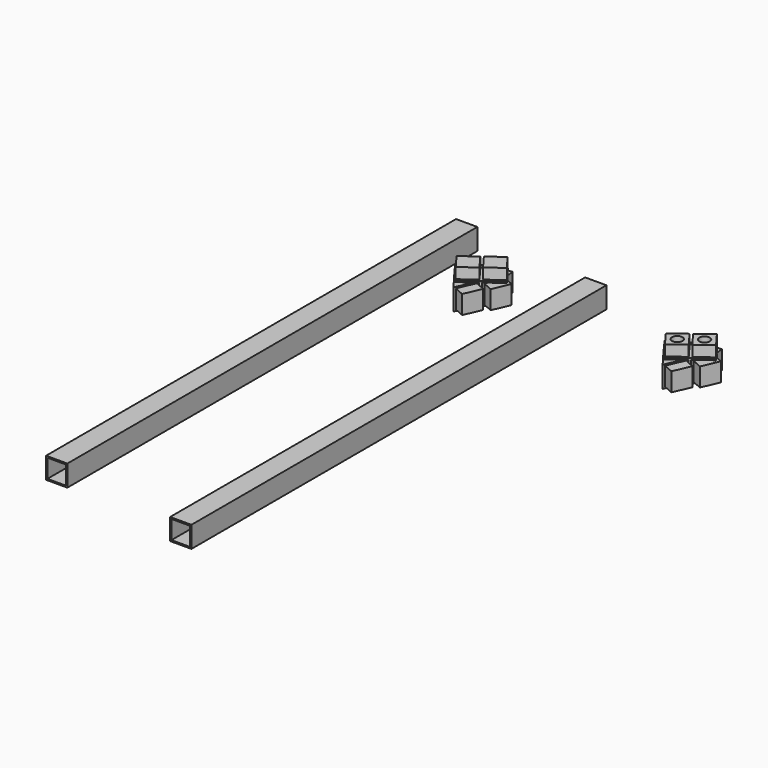
from build123d import *

# Parameters (mm, degrees)
F0_W      = 25.2984
F0_H      = 25.2984
F0_W_2    = 22.098
F0_H_2    = 22.098
F1_DEPTH  = 609.6
F3_DEPTH  = 25.4
F4_W      = 22.098
F4_H      = 22.098
F5_DEPTH  = 12.7
F6_W      = 22.098
F6_H      = 22.098
F7_DEPTH  = 12.7
F8_W      = 27.178
F8_H      = 25.4
F9_DEPTH  = 2.54
F11_DEPTH = 25.4
F13_W     = 22.098
F13_H     = 22.098
F14_DEPTH = 12.7
F15_W     = 22.098
F15_H     = 22.098
F16_DEPTH = 12.7
F18_DEPTH = 1.778
F20_DEPTH = 12.7
F22_R     = 3.175
F23_R     = 3.175
F24_DEPTH = 50.8
F26_R     = 6.223
F26_R_2   = 3.175
F25_R     = 6.223
F25_R_2   = 3.175
F27_DEPTH = 25.4
F28_W     = 25.2984
F28_H     = 25.2984
F28_W_2   = 22.098
F28_H_2   = 22.098
F29_DEPTH = 617.07776


with BuildPart() as f1:
    # F0 (on Front) → F1 (new body)
    with BuildSketch(Plane.XZ):
        with Locations((-101.6152944864, 37.1784642637)):
            Rectangle(F0_W, F0_H)
        with Locations((-101.6152944864, 37.1784642637)):
            Rectangle(F0_W_2, F0_H_2, mode=Mode.SUBTRACT)
    extrude(amount=F1_DEPTH)


with BuildPart() as f3:
    # F2 (on Top) → F3 (new body)
    with BuildSketch(Plane.XY):
        Polygon((-34.21769673, -23.2612590617), (-61.2184605644, -26.3600388792), (-45.0344566045, -48.1939963727), align=None)
    extrude(amount=F3_DEPTH)

    # F4 (on face) → F5 (join)
    with BuildSketch(Plane(origin=(2.1900719944, -19.082871383, 0), x_dir=(-0.9934786899, -0.114017949, 0), z_dir=(-0.114017949, 0.9934786899, 0))):
        with Locations((50.2357535681, 12.7)):
            Rectangle(F4_W, F4_H)
    extrude(amount=F5_DEPTH)

    # F6 (on face) → F7 (join)
    with BuildSketch(Plane(origin=(-20.3044777856, 8.808846692, 0), x_dir=(0.3979969046, 0.9173867581, 0), z_dir=(0.9173867581, -0.3979969046, 0))):
        with Locations((-48.5471084221, 12.7)):
            Rectangle(F6_W, F6_H)
    extrude(amount=F7_DEPTH)

    # F8 (on face) → F9 (join)
    with BuildSketch(Plane(origin=(-52.1209011583, -38.6336224658, 0), x_dir=(0.5954817853, -0.8033688091, 0), z_dir=(-0.8033688091, -0.5954817853, 0))):
        with Locations((-1.688645146, 12.7)):
            Rectangle(F8_W, F8_H)
    extrude(amount=F9_DEPTH)


with BuildPart() as f11:
    # F10 (on face) → F11 (new body)
    with BuildSketch(Plane(origin=(0, 0, 0), x_dir=(1, 0, 0), z_dir=(0, 0, -1))):
        Polygon((-88.5619732819, 33.2618674112), (-61.5612094474, 30.1630875938), (-48.7728212717, 47.4159951272), (-59.5895811463, 72.3487324381), align=None)
    extrude(amount=-F11_DEPTH)


with BuildPart() as f3_1:
    add(f3.part)

    # F12: union F11
    add(f11.part)

    # F13 (on face) → F14 (join)
    with BuildSketch(Plane(origin=(2.6164042983, -22.7976554369, 0), x_dir=(-0.9934786899, -0.114017949, 0), z_dir=(-0.114017949, 0.9934786899, 0))):
        with Locations((78.1878830937, 12.7)):
            Rectangle(F13_W, F13_H)
    extrude(amount=F14_DEPTH)

    # F15 (on face) → F16 (join)
    with BuildSketch(Plane(origin=(-23.7347412977, 10.2970241133, 0), x_dir=(0.3979969046, 0.9173867581, 0), z_dir=(0.9173867581, -0.3979969046, 0))):
        with Locations((-76.4992379477, 12.7)):
            Rectangle(F15_W, F15_H)
    extrude(amount=F16_DEPTH)

    # F17 (on face) → F18 (join)
    with BuildSketch(Plane.XY.offset(25.4)):
        Polygon((-82.167779194, -41.8883211779), (-65.9837752341, -63.7222786714), (-51.0423190211, -52.6472096378), (-48.7728212717, -47.4159951272), (-47.0750133796, -49.7065201072), (-45.0344566045, -48.1939963727), (-34.3728819471, -23.6189625051), (-34.6050696075, -23.3057164431), (-61.2184605644, -26.3600388792), (-63.2590173395, -27.8725626138), (-61.5612094474, -30.1630875938), (-67.2263229809, -30.8132521443), align=None)
        Polygon((-34.3728819471, -23.6189625051), (-45.0344566045, -48.1939963727), (-26.3969737974, -34.3793182208), align=None)
        Polygon((-42.5809777572, -12.5453607273), (-61.2184605644, -26.3600388792), (-34.6050696075, -23.3057164431), align=None)
        Polygon((-63.2590173395, -27.8725626138), (-67.2263229809, -30.8132521443), (-61.5612094474, -30.1630875938), align=None)
        Polygon((-48.7728212717, -47.4159951272), (-51.0423190211, -52.6472096378), (-47.0750133796, -49.7065201072), align=None)
    extrude(amount=F18_DEPTH)

    # F19 (on face) → F20 (join)
    with BuildSketch(Plane.XY.offset(27.178)):
        Polygon((-66.1699370649, -60.6985814689), (-48.4170931216, -47.5396249781), (-61.5760496123, -29.7867810348), (-79.3288935556, -42.9457375256), align=None)
        Polygon((-45.764369314, -45.5733441232), (-28.0115253707, -32.4143876325), (-41.1704818614, -14.6615436892), (-58.9233258047, -27.8205001799), align=None)
        Polygon((-45.764369314, -45.5733441232), (-28.0115253707, -32.4143876325), (-41.1704818614, -14.6615436892), (-58.9233258047, -27.8205001799), align=None)
        Polygon((-45.764369314, -45.5733441232), (-28.0115253707, -32.4143876325), (-41.1704818614, -14.6615436892), (-58.9233258047, -27.8205001799), align=None)
    extrude(amount=F20_DEPTH)


with BuildPart() as f21_1:
    # F21: copy of F3
    add(f3_1.part.moved(Location((248.92, 0, 0))))

    # F22 (on face) + F23 (on face) → F24 (cut)
    with BuildSketch(Plane.XY.offset(39.878)):
        with Locations((205.4525744123, -30.1174439062)):
            Circle(F22_R)
    with BuildSketch(Plane.XY.offset(39.878)):
        with Locations((185.0470066614, -45.2426812518)):
            Circle(F23_R)
    extrude(amount=-F24_DEPTH, mode=Mode.SUBTRACT)

    # F26 (on face) + F25 (on face) → F27 (cut)
    with BuildSketch(Plane.XY.offset(39.878)):
        with Locations((185.0470066614, -45.2426812518)):
            Circle(F26_R)
        with Locations((185.0470066614, -45.2426812518)):
            Circle(F26_R_2, mode=Mode.SUBTRACT)
    with BuildSketch(Plane.XY.offset(39.878)):
        with Locations((205.4525744123, -30.1174439062)):
            Circle(F25_R)
        with Locations((205.4525744123, -30.1174439062)):
            Circle(F25_R_2, mode=Mode.SUBTRACT)
    extrude(amount=-F27_DEPTH, mode=Mode.SUBTRACT)


with BuildPart() as f29:
    # F28 (on Front) → F29 (new body)
    with BuildSketch(Plane.XZ):
        with Locations((51.9292559475, 25.9970645619)):
            Rectangle(F28_W, F28_H)
        with Locations((51.9292559475, 25.9970645619)):
            Rectangle(F28_W_2, F28_H_2, mode=Mode.SUBTRACT)
    extrude(amount=F29_DEPTH)


solid = Compound([f1.part, f3_1.part, f21_1.part, f29.part])
